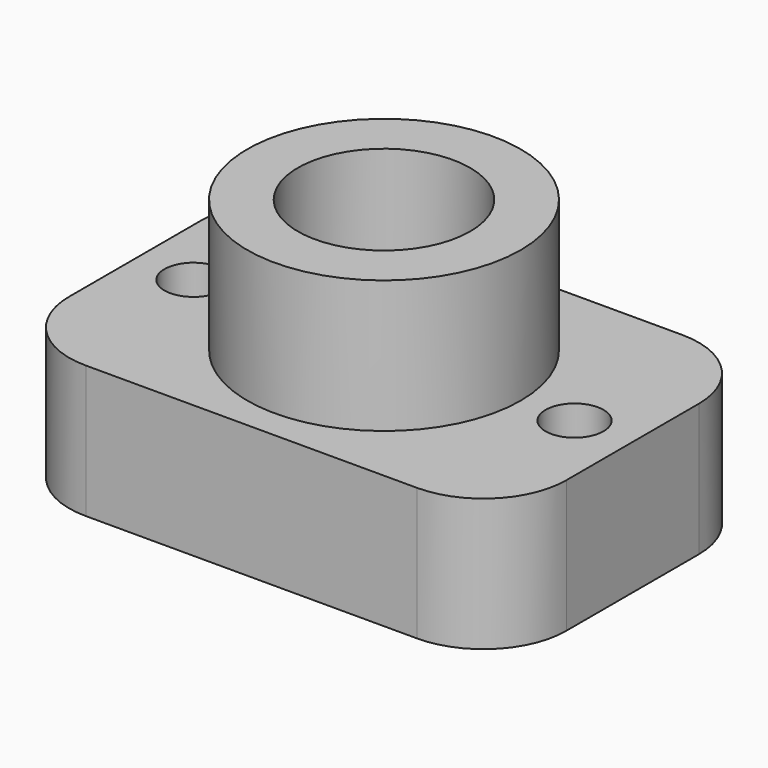
from build123d import *

# Parameters (mm, degrees)
F0_W     = 30
F0_H     = 20
F1_DEPTH = 8
F2_R     = 8.25
F2_R_2   = 5.2
F3_DEPTH = 8
F4_R     = 1.75
F4_R_2   = 5.2
F5_DEPTH = 25
F6_R     = 5


with BuildPart() as f1:
    # F0 (on Top) → F1 (new body)
    with BuildSketch(Plane.XY):
        with Locations((15, 10)):
            Rectangle(F0_W, F0_H)
    extrude(amount=F1_DEPTH)

    # F2 (on face) → F3 (join)
    with BuildSketch(Plane.XY.offset(8)):
        with Locations((15, 10)):
            Circle(F2_R)
        with Locations((15, 10)):
            Circle(F2_R_2, mode=Mode.SUBTRACT)
    extrude(amount=F3_DEPTH)

    # F4 (on face) → F5 (cut)
    with BuildSketch(Plane.XY.offset(8)):
        with Locations((3.5, 10)):
            Circle(F4_R)
        with Locations((26.5, 10)):
            Circle(F4_R)
        with Locations((15, 10)):
            Circle(F4_R_2)
    extrude(amount=-F5_DEPTH, mode=Mode.SUBTRACT)

    # F6
    f6_edges = [f1.edges().sort_by_distance(p)[0] for p in [
        (0, 0, 4),
        (30, 0, 4),
        (30, 20, 4),
        (0, 20, 4),
    ]]
    fillet(f6_edges, radius=F6_R)


solid = f1.part
